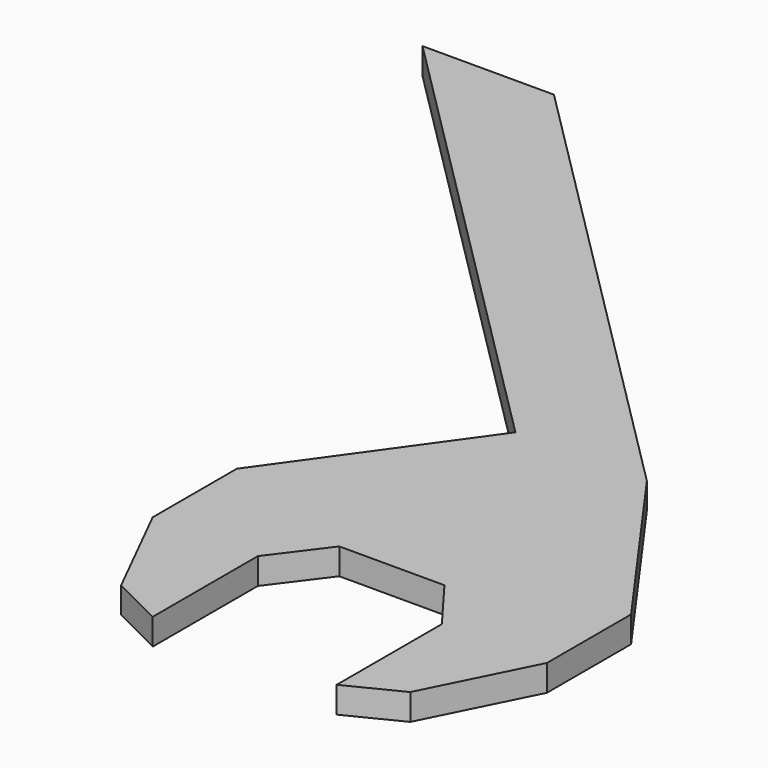
from build123d import *

# Parameters (mm, degrees)
F1_DEPTH = 10


with BuildPart() as f1:
    # F0 (on Top) → F1 (new body)
    with BuildSketch(Plane.XY):
        Polygon((-35, -20), (-20, 0), (20, 0), (35, -20), (35, -70), (55, -60), (75, -20), (75, 20), (25, 90), (-151.776695, 266.776695), (-201.776695, 266.776695), (-25, 90), (-75, 20), (-75, -20), (-55, -60), (-35, -70), align=None)
    extrude(amount=F1_DEPTH)


solid = f1.part
